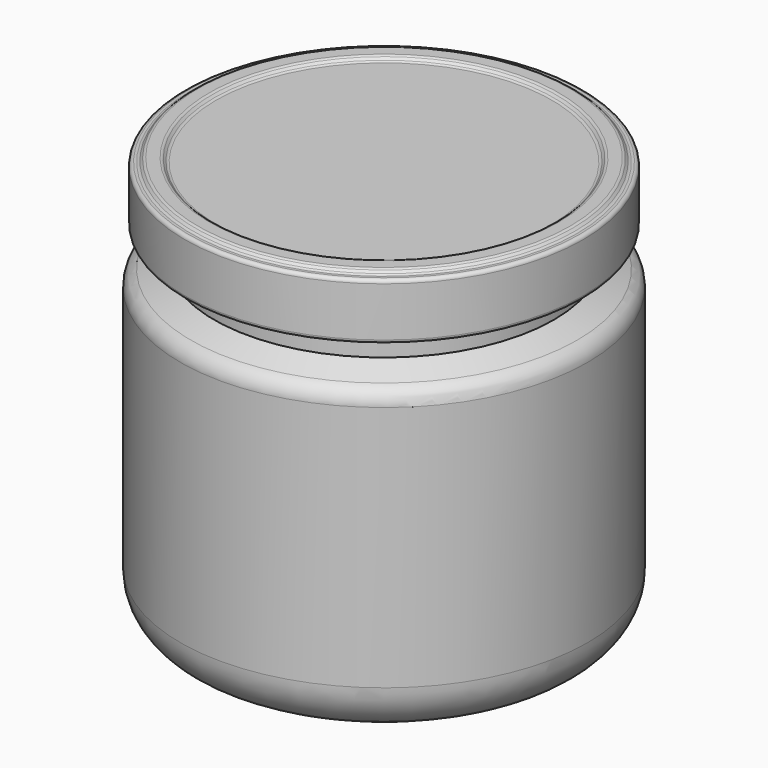
from build123d import *


with BuildPart() as f2:
    # F1 (on Front) → F2 (revolve)
    with BuildSketch(Plane.XZ):
        with BuildLine():
            Line((24.1, 52.140769), (24.1, 51.503553))
            Line((24.1, 51.503553), (27.75, 51.503553))
            ThreePointArc((27.75, 51.503553), (28.103553, 51.65), (28.25, 52.003553))
            Line((28.25, 52.003553), (28.25, 59.003553))
            ThreePointArc((28.25, 59.003553), (28.103553, 59.357107), (27.75, 59.503553))
            Line((27.75, 59.503553), (27.39997, 59.503553))
            ThreePointArc((27.39997, 59.503553), (27.208628, 59.541614), (27.046417, 59.65))
            Line((27.046417, 59.65), (26.75, 59.946417))
            ThreePointArc((26.75, 59.946417), (26.587788, 60.054803), (26.396447, 60.092863))
            Line((26.396447, 60.092863), (24.81066, 60.092863))
            ThreePointArc((24.81066, 60.092863), (24.619318, 60.054803), (24.457107, 59.946417))
            Line((24.457107, 59.946417), (24.16069, 59.65))
            ThreePointArc((24.16069, 59.65), (23.998478, 59.541614), (23.807137, 59.503553))
            Line((23.807137, 59.503553), (0, 59.503553))
            Line((0, 59.503553), (0, 59.003553))
            Line((0, 59.003553), (23.807137, 59.003553))
            ThreePointArc((23.807137, 59.003553), (24.18982, 59.079674), (24.514243, 59.296447))
            Line((24.514243, 59.296447), (24.81066, 59.592863))
            Line((24.81066, 59.592863), (26.396447, 59.592863))
            Line((26.396447, 59.592863), (26.692863, 59.296447))
            ThreePointArc((26.692863, 59.296447), (26.976663, 59.097567), (27.3113, 59.007492))
            Line((27.3113, 59.007492), (27.902303, 58.954881))
            Line((27.902303, 58.954881), (27.902303, 52.140769))
            Line((27.902303, 52.140769), (24.1, 52.140769))
        make_face()
    revolve(axis=Axis((0, 0, 27.955929), (0, 0, 1)))


with BuildPart() as f3:
    # F0 (on Front) → F3 (revolve)
    with BuildSketch(Plane.XZ):
        with BuildLine():
            Line((0, 3.978526), (0, 0))
            Line((0, 0), (20, 0))
            Line((20, 0), (21.9, 1.9))
            ThreePointArc((21.9, 1.9), (26.849747, 3.950253), (28.9, 8.9))
            Line((28.9, 8.9), (28.9, 43.9))
            ThreePointArc((28.9, 43.9), (28.494852, 45.264403), (27.410724, 46.186577))
            Line((27.410724, 46.186577), (24.1, 47.65))
            Line((24.1, 47.65), (24.1, 58.15))
            ThreePointArc((24.1, 58.15), (23.953553, 58.503553), (23.6, 58.65))
            Line((23.6, 58.65), (22.6, 58.65))
            ThreePointArc((22.6, 58.65), (22.246447, 58.503553), (22.1, 58.15))
            Line((22.1, 58.15), (22.1, 47.65))
            ThreePointArc((22.1, 47.65), (22.424118, 46.558478), (23.291421, 45.820738))
            Line((23.291421, 45.820738), (25.708579, 44.752294))
            ThreePointArc((25.708579, 44.752294), (26.575882, 44.014554), (26.9, 42.923032))
            Line((26.9, 42.923032), (26.9, 8.9))
            ThreePointArc((26.9, 8.9), (25.734925, 5.691675), (22.782661, 3.978526))
            Line((22.782661, 3.978526), (0, 3.978526))
        make_face()
    revolve(axis=Axis((0, 0, 27.955929), (0, 0, 1)))


solid = Compound([f2.part, f3.part])
